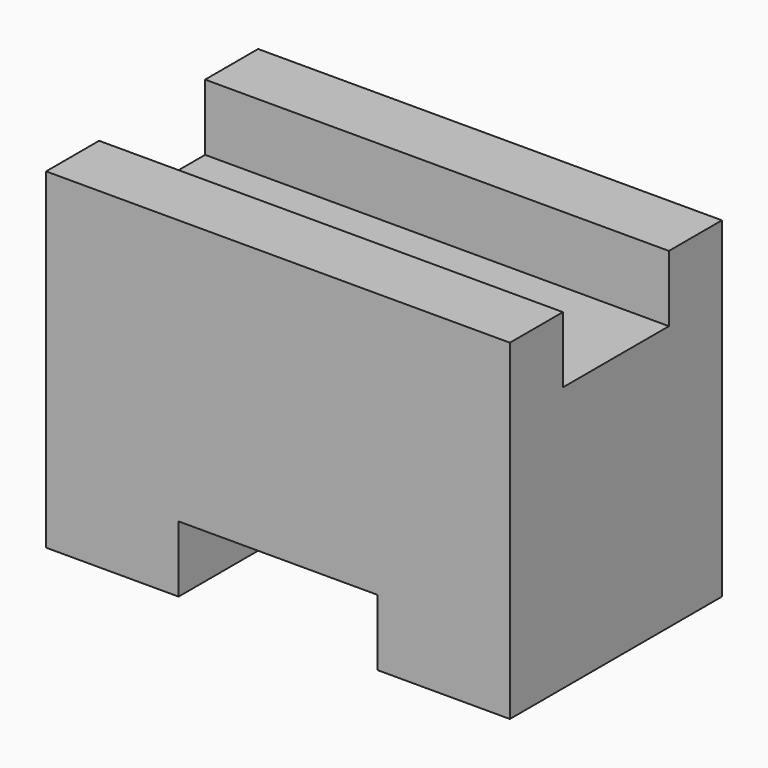
from build123d import *

# Parameters (mm, degrees)
F0_W     = 25.4
F0_H     = 31.75
F1_DEPTH = 44.45
F2_W     = 44.45
F2_H     = 12.7
F3_DEPTH = 6.35
F4_W     = 19.05
F4_H     = 6.35
F5_DEPTH = 25.4


with BuildPart() as f1:
    # F0 (on Right) → F1 (new body)
    with BuildSketch(Plane.YZ):
        with Locations((-12.7, 15.875)):
            Rectangle(F0_W, F0_H)
    extrude(amount=-F1_DEPTH)

    # F2 (on face) → F3 (cut)
    with BuildSketch(Plane.XY.offset(31.75)):
        with Locations((-22.225, -12.7)):
            Rectangle(F2_W, F2_H)
    extrude(amount=-F3_DEPTH, mode=Mode.SUBTRACT)

    # F4 (on face) → F5 (cut)
    with BuildSketch(Plane.XZ.offset(25.4)):
        with Locations((-22.225, 3.175)):
            Rectangle(F4_W, F4_H)
    extrude(amount=-F5_DEPTH, mode=Mode.SUBTRACT)


solid = f1.part
